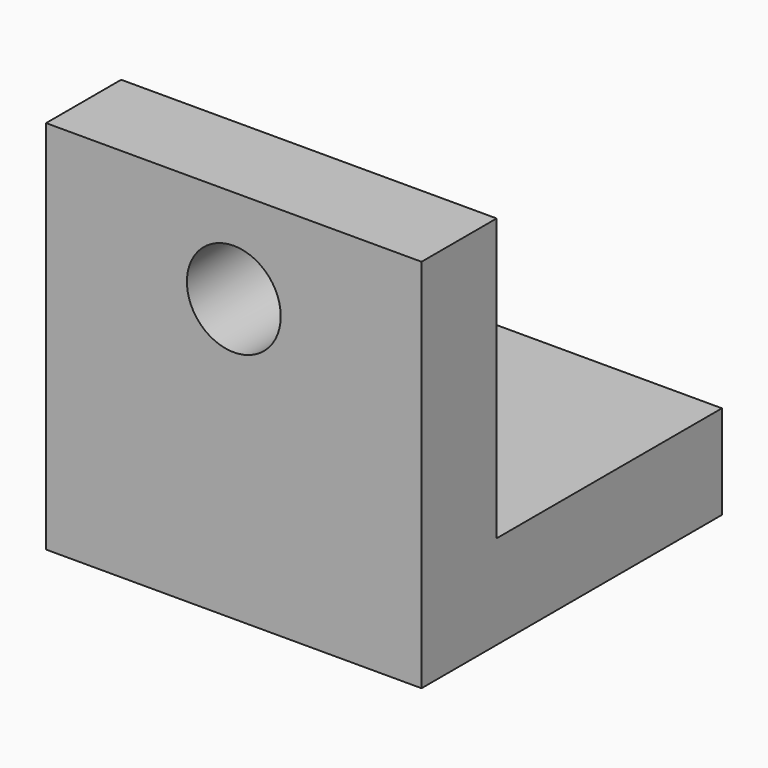
from build123d import *

# Parameters (mm, degrees)
F0_W     = 50.8
F0_H     = 50.8
F1_DEPTH = 12.7
F2_W     = 50.8
F2_H     = 12.7
F3_DEPTH = 38.1
F5_DEPTH = 25.4


with BuildPart() as f1:
    # F0 (on Top) → F1 (new body)
    with BuildSketch(Plane.XY):
        with Locations((25.4, 25.4)):
            Rectangle(F0_W, F0_H)
    extrude(amount=F1_DEPTH)

    # F2 (on face) → F3 (join)
    with BuildSketch(Plane.XY.offset(12.7)):
        with Locations((25.4, 6.35)):
            Rectangle(F2_W, F2_H)
    extrude(amount=F3_DEPTH)

    # F4 (on face) → F5 (cut)
    with BuildSketch(Plane.XZ):
        with BuildLine():
            ThreePointArc((31.75, 38.1), (29.890128, 42.590128), (25.4, 44.45))
            ThreePointArc((25.4, 44.45), (20.909872, 33.609872), (31.75, 38.1))
        make_face()
    extrude(amount=-F5_DEPTH, mode=Mode.SUBTRACT)


solid = f1.part
